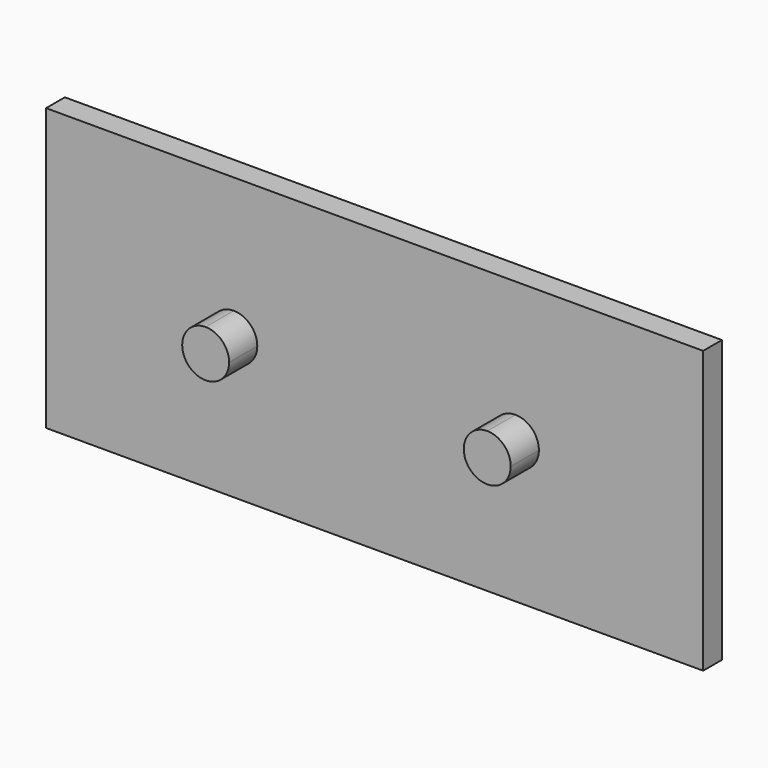
from build123d import *

# Parameters (mm, degrees)
F0_W     = 177.8
F0_H     = 76.2
F1_DEPTH = 6.35
F3_DEPTH = 9.525


with BuildPart() as f1:
    # F0 (on Front) → F1 (new body)
    with BuildSketch(Plane.XZ):
        with Locations((88.9, -38.1)):
            Rectangle(F0_W, F0_H)
    extrude(amount=F1_DEPTH)

    # F2 (on face) → F3 (join)
    with BuildSketch(Plane.XZ.offset(6.35)):
        with BuildLine():
            ThreePointArc((50.8, -31.75), (46.309872, -33.609872), (44.45, -38.1))
            Line((44.45, -38.1), (50.8, -38.1))
            Line((50.8, -38.1), (50.8, -31.75))
        make_face()
        with BuildLine():
            ThreePointArc((127, -31.75), (122.509872, -33.609872), (120.65, -38.1))
            Line((120.65, -38.1), (127, -38.1))
            Line((127, -38.1), (127, -31.75))
        make_face()
        with BuildLine():
            Line((127, -38.1), (120.65, -38.1))
            ThreePointArc((120.65, -38.1), (122.509872, -42.590128), (127, -44.45))
            Line((127, -44.45), (127, -38.1))
        make_face()
        with BuildLine():
            Line((50.8, -38.1), (44.45, -38.1))
            ThreePointArc((44.45, -38.1), (46.309872, -42.590128), (50.8, -44.45))
            Line((50.8, -44.45), (50.8, -38.1))
        make_face()
        with BuildLine():
            Line((50.8, -31.75), (50.8, -38.1))
            Line((50.8, -38.1), (57.15, -38.1))
            ThreePointArc((57.15, -38.1), (55.290128, -33.609872), (50.8, -31.75))
        make_face()
        with BuildLine():
            Line((57.15, -38.1), (50.8, -38.1))
            Line((50.8, -38.1), (50.8, -44.45))
            ThreePointArc((50.8, -44.45), (55.290128, -42.590128), (57.15, -38.1))
        make_face()
        with BuildLine():
            Line((127, -31.75), (127, -38.1))
            Line((127, -38.1), (133.35, -38.1))
            ThreePointArc((133.35, -38.1), (131.490128, -33.609872), (127, -31.75))
        make_face()
        with BuildLine():
            Line((133.35, -38.1), (127, -38.1))
            Line((127, -38.1), (127, -44.45))
            ThreePointArc((127, -44.45), (131.490128, -42.590128), (133.35, -38.1))
        make_face()
    extrude(amount=F3_DEPTH)


solid = f1.part
